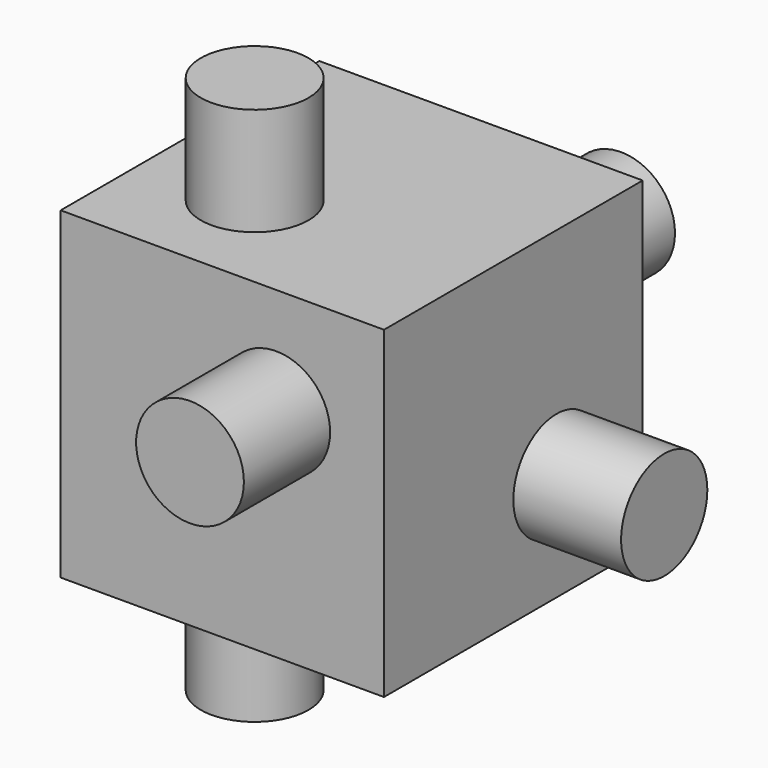
from build123d import *

# Parameters (mm, degrees)
F0_R     = 10
F1_DEPTH = 50
F2_R     = 10
F3_DEPTH = 50
F4_R     = 10
F5_DEPTH = 50
F6_W     = 60
F6_H     = 60
F7_DEPTH = 30


with BuildPart() as f1:
    # F0 (on Top) → F1 (new body, symmetric)
    with BuildSketch(Plane.XY):
        with Locations((-10, -10)):
            Circle(F0_R)
    extrude(amount=F1_DEPTH, both=True)


with BuildPart() as f3:
    # F2 (on Front) → F3 (new body, symmetric)
    with BuildSketch(Plane.XZ):
        with Locations((10, 10)):
            Circle(F2_R)
    extrude(amount=F3_DEPTH, both=True)


with BuildPart() as f5:
    # F4 (on Right) → F5 (new body, symmetric)
    with BuildSketch(Plane.YZ):
        with Locations((10, -10)):
            Circle(F4_R)
    extrude(amount=F5_DEPTH, both=True)


with BuildPart() as f7:
    # F6 (on Right) → F7 (new body, symmetric)
    with BuildSketch(Plane.YZ):
        Rectangle(F6_W, F6_H)
    extrude(amount=F7_DEPTH, both=True)


solid = Compound([f1.part, f3.part, f5.part, f7.part])
